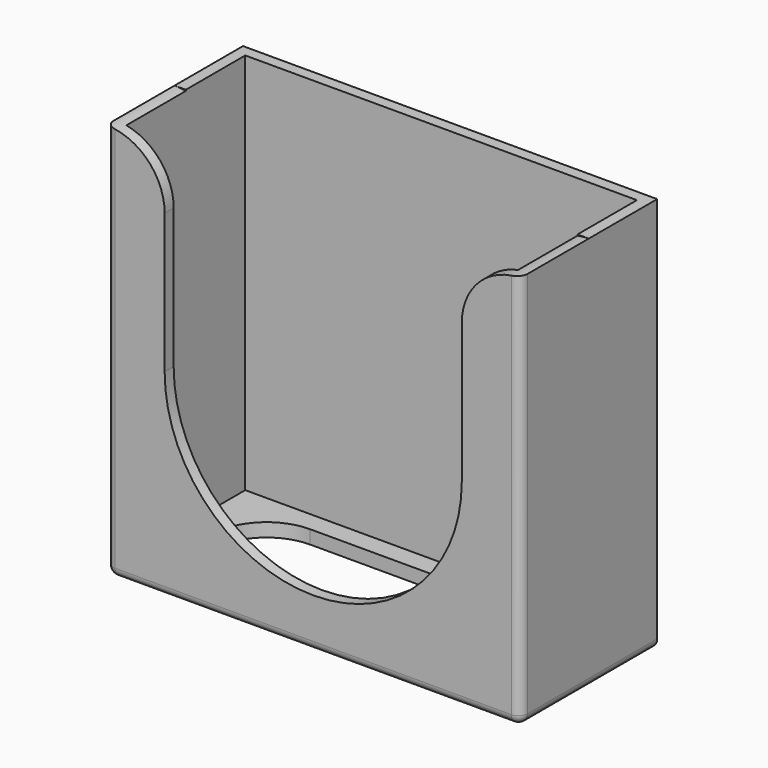
from build123d import *

# Parameters (mm, degrees)
SKETCH_W             = 46
SKETCH_H             = 19
PAD_DEPTH            = 22
POCKET_DEPTH         = 9.501
SKETCH002_W          = 43.5
SKETCH002_H          = 16.5
POCKET001_DEPTH      = 20.5
POCKET001_DEPTH_BACK = -24
POCKET002_DEPTH      = 22.001
FILLET_R             = 1


with BuildPart() as part:
    # Sketch → Pad (new body, symmetric)
    with BuildSketch(Plane.XY):
        Rectangle(SKETCH_W, SKETCH_H)
    extrude(amount=PAD_DEPTH, both=True)

    # Sketch001 → Pocket (cut, through all)
    with BuildSketch(Plane.XZ):
        with BuildLine():
            ThreePointArc((-16.5, 0), (0, -16.5), (16.5, 0))
            Line((16.5, 15.5), (16.5, 0))
            ThreePointArc((23, 22), (18.403806, 20.096194), (16.5, 15.5))
            Line((25.719499, 22), (23, 22))
            Line((25.719499, 26.595188), (25.719499, 22))
            Line((-24.273219, 26.595188), (25.719499, 26.595188))
            Line((-24.273219, 22), (-24.273219, 26.595188))
            Line((-23, 22), (-24.273219, 22))
            ThreePointArc((-16.5, 15.5), (-18.403806, 20.096194), (-23, 22))
            Line((-16.5, 15.5), (-16.5, 0))
        make_face()
    extrude(amount=POCKET_DEPTH, mode=Mode.SUBTRACT)

    # Sketch002 → Pocket001 (cut, two sides)
    with BuildSketch(Plane.XY) as pocket001_sk:
        Rectangle(SKETCH002_W, SKETCH002_H)
    extrude(amount=-POCKET001_DEPTH, mode=Mode.SUBTRACT)
    extrude(pocket001_sk.sketch, amount=-POCKET001_DEPTH_BACK, mode=Mode.SUBTRACT)

    # Sketch003 → Pocket002 (cut, through all)
    with BuildSketch(Plane.XY):
        with BuildLine():
            ThreePointArc((-12.783883, 6.033269), (-18.817152, 0), (-12.783883, -6.033269))
            Line((-12.783883, -6.033269), (12.783883, -6.033269))
            ThreePointArc((12.783883, -6.033269), (18.817152, 0), (12.783883, 6.033269))
            Line((12.783883, 6.033269), (-12.783883, 6.033269))
        make_face()
    extrude(amount=-POCKET002_DEPTH, mode=Mode.SUBTRACT)

    # Fillet
    fillet_edges = [part.edges().sort_by_distance(p)[0] for p in [
        (-23, -9.5, 0),
        (0, -9.5, -22),
        (23, -9.5, 0),
        (23, 0, -22),
        (-23, 0, -22),
    ]]
    fillet(fillet_edges, radius=FILLET_R)


solid = part.part
